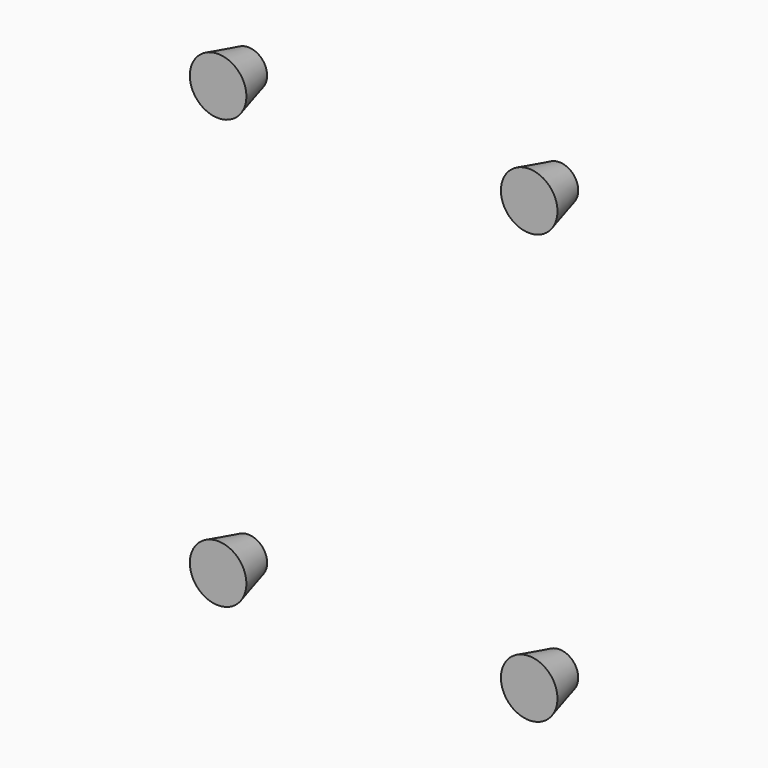
from build123d import *


with BuildPart() as cone002:
    # Cone002 → Cone002 (revolve)
    with BuildSketch(Plane(origin=(6, -24.5, 82), x_dir=(-1, 0, 0), z_dir=(0, 0, -1))):
        Polygon((0, 0), (6, 0), (4, 8), (0, 8), align=None)
    revolve(axis=Axis((6, -24.5, 82), (0, 1, 0)))


with BuildPart() as cone003:
    # Cone003 → Cone003 (revolve)
    with BuildSketch(Plane(origin=(72, -24.5, -9), x_dir=(-1, 0, 0), z_dir=(0, 0, -1))):
        Polygon((0, 0), (6, 0), (4, 8), (0, 8), align=None)
    revolve(axis=Axis((72, -24.5, -9), (0, 1, 0)))


with BuildPart() as cone004:
    # Cone004 → Cone004 (revolve)
    with BuildSketch(Plane(origin=(72, -24.5, 82), x_dir=(-1, 0, 0), z_dir=(0, 0, -1))):
        Polygon((0, 0), (6, 0), (4, 8), (0, 8), align=None)
    revolve(axis=Axis((72, -24.5, 82), (0, 1, 0)))


with BuildPart() as m3nutsholds:
    # Cone001 → Cone001 (revolve)
    with BuildSketch(Plane(origin=(6, -24.5, -9), x_dir=(-1, 0, 0), z_dir=(0, 0, -1))):
        Polygon((0, 0), (6, 0), (4, 8), (0, 8), align=None)
    revolve(axis=Axis((6, -24.5, -9), (0, 1, 0)))

    # Fusion043: union Cone002, Cone003, Cone004
    add(cone002.part)
    add(cone003.part)
    add(cone004.part)


solid = m3nutsholds.part
